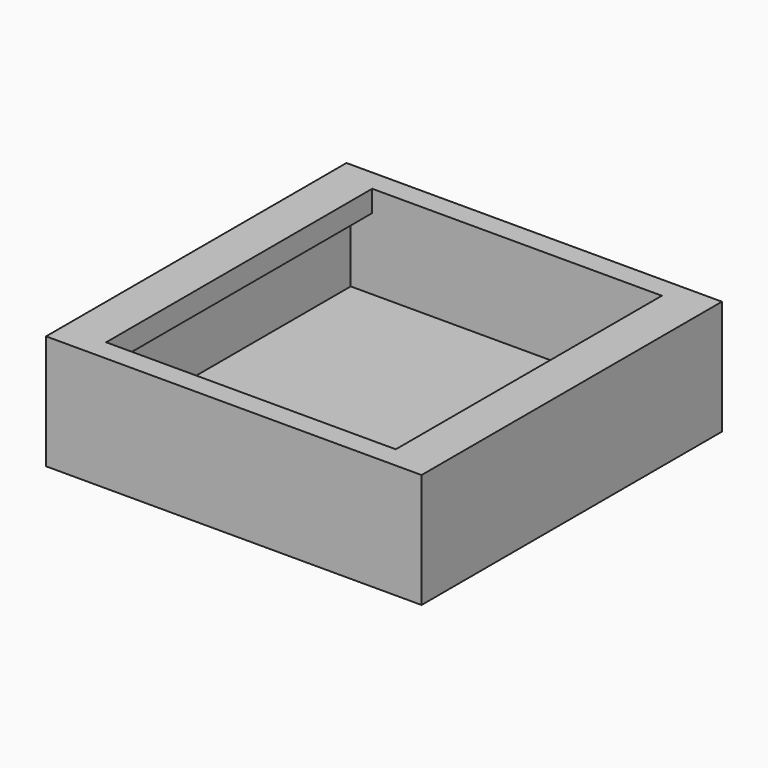
from build123d import *

# Parameters (mm, degrees)
F0_W     = 52.5
F0_H     = 52.5
F1_DEPTH = 3
F2_W     = 52.5
F2_H     = 52.5
F2_W_2   = 46.5
F2_H_2   = 46.5
F3_DEPTH = 13
F4_W     = 6
F4_H     = 3
F5_DEPTH = 52.5


with BuildPart() as f1:
    # F0 (on Top) → F1 (new body)
    with BuildSketch(Plane.XY):
        Rectangle(F0_W, F0_H)
    extrude(amount=F1_DEPTH)

    # F2 (on face) → F3 (join)
    with BuildSketch(Plane.XY.offset(3)):
        Rectangle(F2_W, F2_H)
        Rectangle(F2_W_2, F2_H_2, mode=Mode.SUBTRACT)
    extrude(amount=F3_DEPTH)

    # F4 (on face) → F5 (join)
    with BuildSketch(Plane.XZ.offset(26.25)):
        with Locations((-23.25, 14.5)):
            Rectangle(F4_W, F4_H)
        with Locations((23.25, 14.5)):
            Rectangle(F4_W, F4_H)
    extrude(amount=-F5_DEPTH)


solid = f1.part
